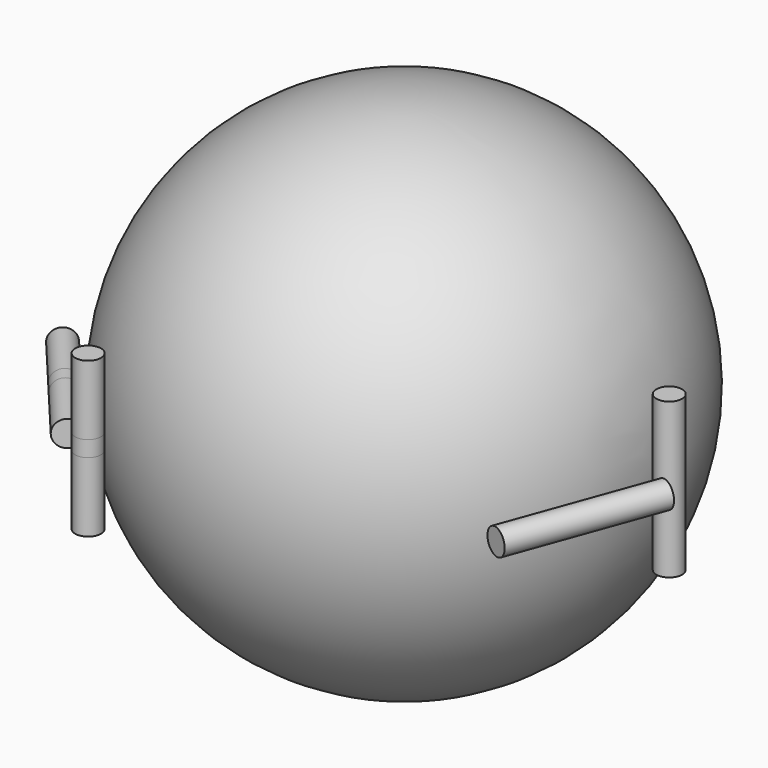
from build123d import *

# Parameters (mm, degrees)
F2_R     = 65
F3_DEPTH = 40
F4_DEPTH = 390
F5_COUNT = 2
F5_ANGLE = 20
F6_ANGLE = 90
F7_COUNT = 3


with BuildPart() as f1:
    # F0 (on Front) → F1 (revolve)
    with BuildSketch(Plane.XZ):
        with BuildLine():
            Line((0, 1250), (0, -1250))
            ThreePointArc((0, -1250), (1250, 0), (0, 1250))
        make_face()
    revolve(axis=Axis((0, 0, 0), (0, 0, -1)))


with BuildPart() as f3:
    # F2 (on Front) → F3 (new body, symmetric)
    with BuildSketch(Plane.XZ):
        with Locations((1335, 0)):
            Circle(F2_R)
    extrude(amount=F3_DEPTH, both=True)


with BuildPart() as f4:
    # F2 (on Front) → F4 (new body, symmetric)
    with BuildSketch(Plane.XZ):
        with Locations((1335, 0)):
            Circle(F2_R)
    extrude(amount=F4_DEPTH, both=True)


with BuildPart() as f5_1:
    # F5: instance of F3
    add(f3.part.rotate(Axis((0, 0, 0), (0, 0, -1)), 1 * F5_ANGLE / (F5_COUNT - 1)))


with BuildPart() as f5_2:
    # F5: instance of F4
    add(f4.part.rotate(Axis((0, 0, 0), (0, 0, -1)), 1 * F5_ANGLE / (F5_COUNT - 1)))


with BuildPart() as f3_1:
    # F6: moved
    add(f3.part.rotate(Axis((667.5, 0, 0), (-1, 0, 0)), F6_ANGLE))


with BuildPart() as f4_1:
    # F6: moved
    add(f4.part.rotate(Axis((667.5, 0, 0), (-1, 0, 0)), F6_ANGLE))


with BuildPart() as f7_1:
    # F7: instance of F4
    add(f4_1.part.rotate(Axis((0, 0, 0), (0, 0, -1)), 1 * 360 / F7_COUNT))


with BuildPart() as f7_2:
    # F7: instance of F4
    add(f4_1.part.rotate(Axis((0, 0, 0), (0, 0, -1)), 2 * 360 / F7_COUNT))


with BuildPart() as f7_3:
    # F7: instance of F3
    add(f3_1.part.rotate(Axis((0, 0, 0), (0, 0, -1)), 1 * 360 / F7_COUNT))


with BuildPart() as f7_4:
    # F7: instance of F3
    add(f3_1.part.rotate(Axis((0, 0, 0), (0, 0, -1)), 2 * 360 / F7_COUNT))


with BuildPart() as f7_5:
    # F7: instance of F5_2
    add(f5_2.part.rotate(Axis((0, 0, 0), (0, 0, -1)), 1 * 360 / F7_COUNT))


with BuildPart() as f7_6:
    # F7: instance of F5_2
    add(f5_2.part.rotate(Axis((0, 0, 0), (0, 0, -1)), 2 * 360 / F7_COUNT))


with BuildPart() as f7_7:
    # F7: instance of F5_1
    add(f5_1.part.rotate(Axis((0, 0, 0), (0, 0, -1)), 1 * 360 / F7_COUNT))


with BuildPart() as f7_8:
    # F7: instance of F5_1
    add(f5_1.part.rotate(Axis((0, 0, 0), (0, 0, -1)), 2 * 360 / F7_COUNT))


solid = Compound([f1.part, f5_1.part, f5_2.part, f3_1.part, f4_1.part, f7_1.part, f7_2.part, f7_3.part, f7_4.part, f7_5.part, f7_6.part, f7_7.part, f7_8.part])
